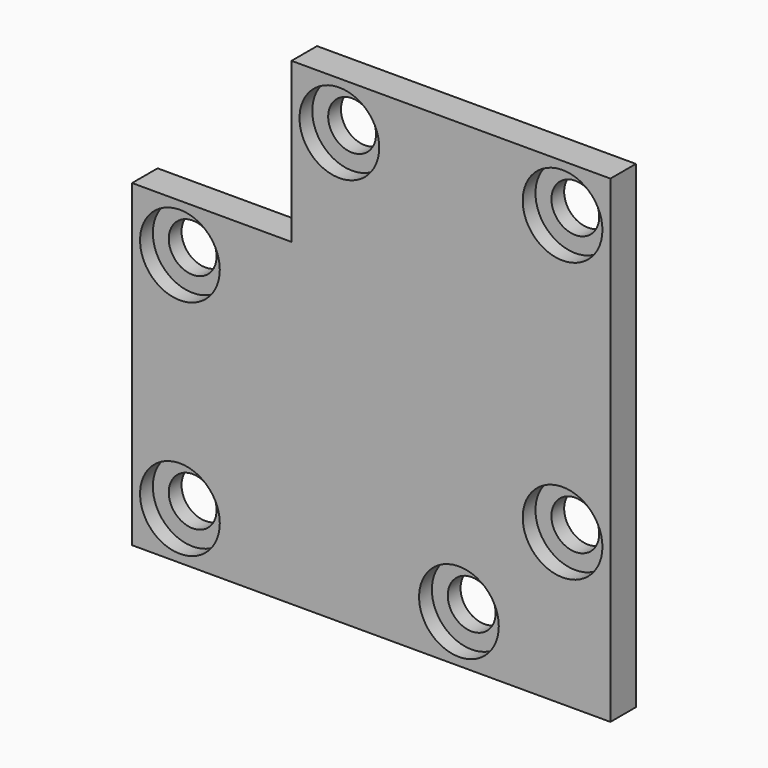
from build123d import *

# Parameters (mm, degrees)
F0_R     = 3
F1_DEPTH = 4
F2_R     = 5
F2_R_2   = 3
F3_DEPTH = 2


with BuildPart() as f1:
    # F0 (on Front) → F1 (new body)
    with BuildSketch(Plane.XZ):
        Polygon((-60, 0), (0, 0), (0, 40), (0, 60), (-40, 60), (-40, 40), (-60, 40), align=None)
        with Locations((-54, 6)):
            Circle(F0_R, mode=Mode.SUBTRACT)
        with Locations((-19, 6)):
            Circle(F0_R, mode=Mode.SUBTRACT)
        with Locations((-6, 19)):
            Circle(F0_R, mode=Mode.SUBTRACT)
        with Locations((-54, 34)):
            Circle(F0_R, mode=Mode.SUBTRACT)
        with Locations((-34, 54)):
            Circle(F0_R, mode=Mode.SUBTRACT)
        with Locations((-6, 54)):
            Circle(F0_R, mode=Mode.SUBTRACT)
    extrude(amount=F1_DEPTH)

    # F2 (on face) → F3 (cut)
    with BuildSketch(Plane.XZ.offset(4)):
        with Locations((-54, 34)):
            Circle(F2_R)
        with Locations((-54, 34)):
            Circle(F2_R_2, mode=Mode.SUBTRACT)
        with Locations((-34, 54)):
            Circle(F2_R)
        with Locations((-34, 54)):
            Circle(F2_R_2, mode=Mode.SUBTRACT)
        with Locations((-6, 54)):
            Circle(F2_R)
        with Locations((-6, 54)):
            Circle(F2_R_2, mode=Mode.SUBTRACT)
        with Locations((-6, 19)):
            Circle(F2_R)
        with Locations((-6, 19)):
            Circle(F2_R_2, mode=Mode.SUBTRACT)
        with Locations((-19, 6)):
            Circle(F2_R)
        with Locations((-19, 6)):
            Circle(F2_R_2, mode=Mode.SUBTRACT)
        with Locations((-54, 6)):
            Circle(F2_R)
        with Locations((-54, 6)):
            Circle(F2_R_2, mode=Mode.SUBTRACT)
    extrude(amount=-F3_DEPTH, mode=Mode.SUBTRACT)


solid = f1.part
